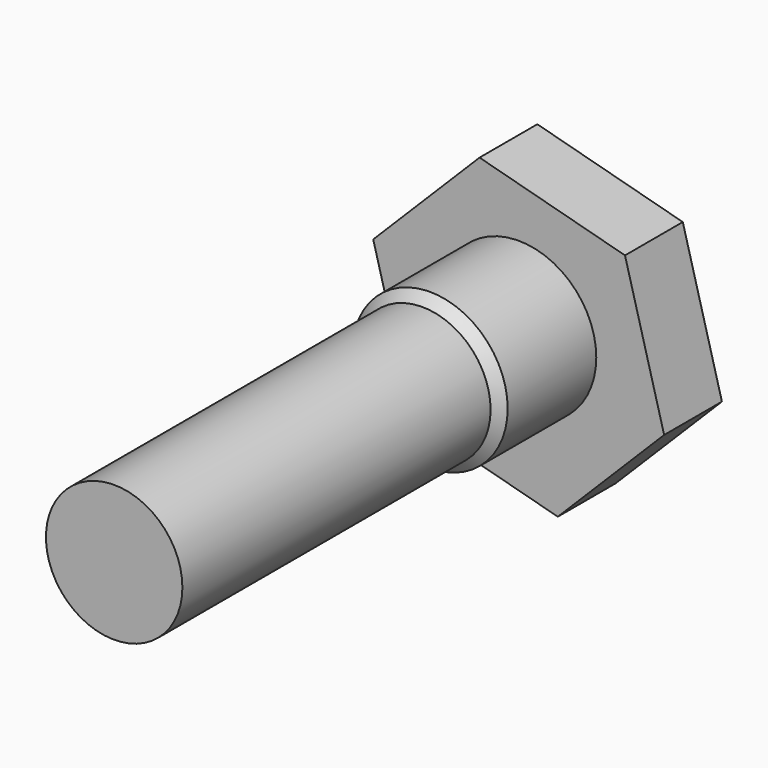
from build123d import *

# Parameters (mm, degrees)
F1_DEPTH = 38.1
F2_R     = 40.931298
F3_DEPTH = 63.5
F4_SIZE  = 5.08
F5_R     = 35.9841
F6_DEPTH = 203.2


with BuildPart() as f1:
    # F0 (on Front) → F1 (new body)
    with BuildSketch(Plane.XZ):
        Polygon((76.720704, -24.324451), (56.083392, 52.35003), (-20.637312, 72.814834), (-76.720704, 16.605157), (-56.083392, -60.069323), (20.637312, -80.534127), align=None)
    extrude(amount=F1_DEPTH)

    # F2 (on face) → F3 (join)
    with BuildSketch(Plane.XZ.offset(38.1)):
        Circle(F2_R)
    extrude(amount=F3_DEPTH)

    # F4
    f4_edges = [f1.edges().sort_by_distance(p)[0] for p in [
        (-40.931298, -101.6, 0),
    ]]
    chamfer(f4_edges, length=F4_SIZE)

    # F5 (on face) → F6 (join)
    with BuildSketch(Plane.XZ.offset(101.6)):
        Circle(F5_R)
    extrude(amount=F6_DEPTH)


solid = f1.part
